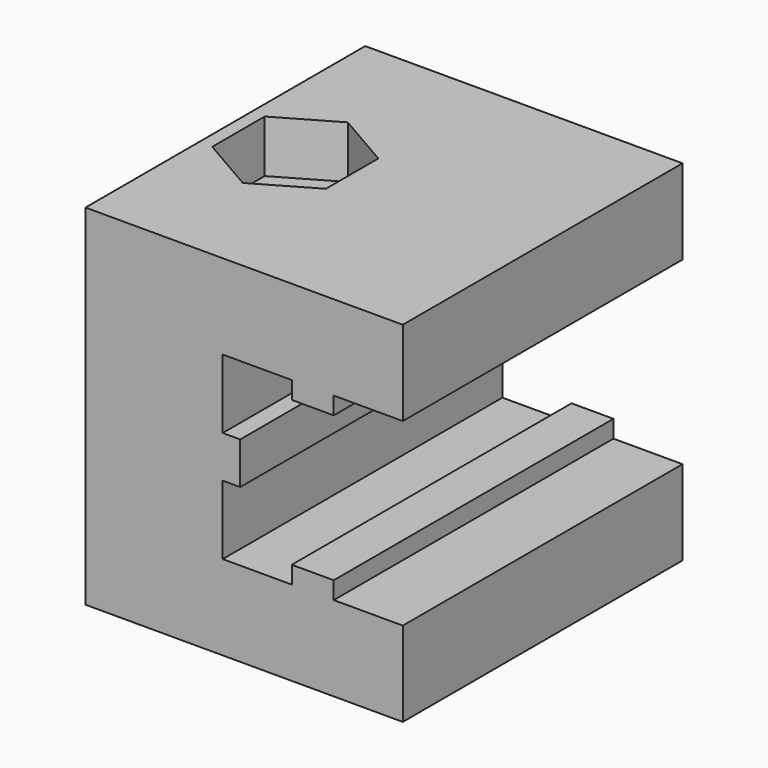
from build123d import *

# Parameters (mm, degrees)
F0_W     = 4.8
F0_H     = 2
F0_W_2   = 2
F0_H_2   = 4.8
F1_DEPTH = 20
F2_R     = 4
F3_DEPTH = 50
F4_DEPTH = 6


with BuildPart() as f1:
    # F0 (on Front) → F1 (new body, symmetric)
    with BuildSketch(Plane.XZ):
        Polygon((10.3, -20), (10.3, -10.3), (2.4, -10.3), (-2.4, -10.3), (-10.3, -10.3), (-10.3, -2.4), (-10.3, 2.4), (-10.3, 10.3), (-2.4, 10.3), (2.4, 10.3), (10.3, 10.3), (10.3, 20), (-26, 20), (-26, -20), align=None)
        with Locations((0, -9.3)):
            Rectangle(F0_W, F0_H)
        with Locations((0, 9.3)):
            Rectangle(F0_W, F0_H)
        with Locations((-9.3, 0)):
            Rectangle(F0_W_2, F0_H_2)
    extrude(amount=F1_DEPTH, both=True)

    # F2 (on face) → F3 (cut)
    with BuildSketch(Plane.XY.offset(20)):
        with Locations((-18, 0)):
            Circle(F2_R)
    extrude(amount=-F3_DEPTH, mode=Mode.SUBTRACT)

    # F2 (on face) → F4 (cut)
    with BuildSketch(Plane.XY.offset(20)):
        Polygon((-11.5, -3.752777), (-11.5, 3.752777), (-18, 7.505553), (-24.5, 3.752777), (-24.5, -3.752777), (-18, -7.505553), align=None)
        with Locations((-18, 0)):
            Circle(F2_R, mode=Mode.SUBTRACT)
    extrude(amount=-F4_DEPTH, mode=Mode.SUBTRACT)


solid = f1.part
